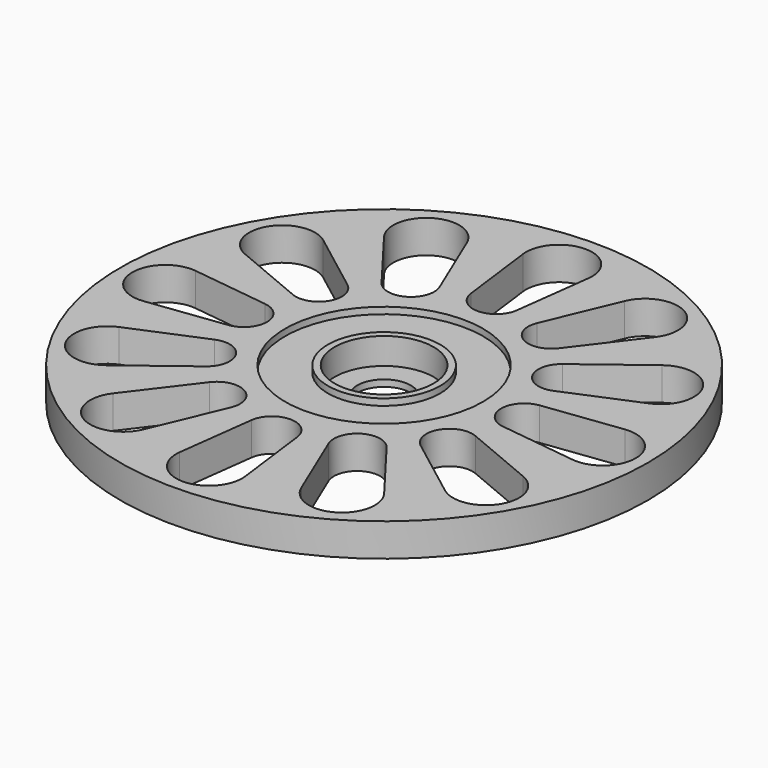
from build123d import *

# Parameters (mm, degrees)
F0_R     = 40
F0_R_2   = 15
F1_DEPTH = 5
F0_R_3   = 8.5
F2_DEPTH = 4
F0_R_4   = 7.5
F3_DEPTH = 5
F0_R_5   = 4.05
F4_DEPTH = 1


with BuildPart() as f1:
    # F0 (on Top) → F1 (new body)
    with BuildSketch(Plane.XY):
        Circle(F0_R)
        with BuildLine():
            ThreePointArc((-11.961144, -30.637533), (-19.071879, -33.033464), (-20.55231, -25.677421))
            Line((-20.55231, -25.677421), (-13.40868, -16.280358))
            ThreePointArc((-13.40868, -16.280358), (-8.872378, -15.36741), (-7.394863, -19.752436))
            Line((-7.394863, -19.752436), (-11.961144, -30.637533))
        make_face(mode=Mode.SUBTRACT)
        with BuildLine():
            ThreePointArc((4.960112, -32.513454), (0, -38.143759), (-4.960112, -32.513454))
            Line((-4.960112, -32.513454), (-3.472079, -20.803543))
            ThreePointArc((-3.472079, -20.803543), (0, -17.744757), (3.472079, -20.803543))
            Line((3.472079, -20.803543), (4.960112, -32.513454))
        make_face(mode=Mode.SUBTRACT)
        with BuildLine():
            ThreePointArc((-25.677421, -20.55231), (-33.033464, -19.071879), (-30.637533, -11.961144))
            Line((-30.637533, -11.961144), (-19.752436, -7.394863))
            ThreePointArc((-19.752436, -7.394863), (-15.36741, -8.872378), (-16.280358, -13.40868))
            Line((-16.280358, -13.40868), (-25.677421, -20.55231))
        make_face(mode=Mode.SUBTRACT)
        with BuildLine():
            ThreePointArc((20.55231, -25.677421), (19.071879, -33.033464), (11.961144, -30.637533))
            Line((11.961144, -30.637533), (7.394863, -19.752436))
            ThreePointArc((7.394863, -19.752436), (8.872378, -15.36741), (13.40868, -16.280358))
            Line((13.40868, -16.280358), (20.55231, -25.677421))
        make_face(mode=Mode.SUBTRACT)
        with BuildLine():
            ThreePointArc((30.637533, -11.961144), (33.033464, -19.071879), (25.677421, -20.55231))
            Line((25.677421, -20.55231), (16.280358, -13.40868))
            ThreePointArc((16.280358, -13.40868), (15.36741, -8.872378), (19.752436, -7.394863))
            Line((19.752436, -7.394863), (30.637533, -11.961144))
        make_face(mode=Mode.SUBTRACT)
        with BuildLine():
            ThreePointArc((32.513454, 4.960112), (38.143759, 0), (32.513454, -4.960112))
            Line((32.513454, -4.960112), (20.803543, -3.472079))
            ThreePointArc((20.803543, -3.472079), (17.744757, 0), (20.803543, 3.472079))
            Line((20.803543, 3.472079), (32.513454, 4.960112))
        make_face(mode=Mode.SUBTRACT)
        with BuildLine():
            ThreePointArc((-32.513454, -4.960112), (-38.143759, 0), (-32.513454, 4.960112))
            Line((-32.513454, 4.960112), (-20.803543, 3.472079))
            ThreePointArc((-20.803543, 3.472079), (-17.744757, 0), (-20.803543, -3.472079))
            Line((-20.803543, -3.472079), (-32.513454, -4.960112))
        make_face(mode=Mode.SUBTRACT)
        with BuildLine():
            ThreePointArc((-30.637533, 11.961144), (-33.033464, 19.071879), (-25.677421, 20.55231))
            Line((-25.677421, 20.55231), (-16.280358, 13.40868))
            ThreePointArc((-16.280358, 13.40868), (-15.36741, 8.872378), (-19.752436, 7.394863))
            Line((-19.752436, 7.394863), (-30.637533, 11.961144))
        make_face(mode=Mode.SUBTRACT)
        with BuildLine():
            ThreePointArc((-20.55231, 25.677421), (-19.071879, 33.033464), (-11.961144, 30.637533))
            Line((-11.961144, 30.637533), (-7.394863, 19.752436))
            ThreePointArc((-7.394863, 19.752436), (-8.872378, 15.36741), (-13.40868, 16.280358))
            Line((-13.40868, 16.280358), (-20.55231, 25.677421))
        make_face(mode=Mode.SUBTRACT)
        Circle(F0_R_2, mode=Mode.SUBTRACT)
        with BuildLine():
            ThreePointArc((25.677421, 20.55231), (33.033464, 19.071879), (30.637533, 11.961144))
            Line((30.637533, 11.961144), (19.752436, 7.394863))
            ThreePointArc((19.752436, 7.394863), (15.36741, 8.872378), (16.280358, 13.40868))
            Line((16.280358, 13.40868), (25.677421, 20.55231))
        make_face(mode=Mode.SUBTRACT)
        with BuildLine():
            ThreePointArc((3.472079, 20.803543), (0, 17.744757), (-3.472079, 20.803543))
            Line((-3.472079, 20.803543), (-4.960112, 32.513454))
            ThreePointArc((-4.960112, 32.513454), (0, 38.143759), (4.960112, 32.513454))
            Line((4.960112, 32.513454), (3.472079, 20.803543))
        make_face(mode=Mode.SUBTRACT)
        with BuildLine():
            ThreePointArc((11.961144, 30.637533), (19.071879, 33.033464), (20.55231, 25.677421))
            Line((20.55231, 25.677421), (13.40868, 16.280358))
            ThreePointArc((13.40868, 16.280358), (8.872378, 15.36741), (7.394863, 19.752436))
            Line((7.394863, 19.752436), (11.961144, 30.637533))
        make_face(mode=Mode.SUBTRACT)
    extrude(amount=F1_DEPTH)

    # F0 (on Top) → F2 (join)
    with BuildSketch(Plane.XY):
        Circle(F0_R_2)
        Circle(F0_R_3, mode=Mode.SUBTRACT)
    extrude(amount=F2_DEPTH)

    # F0 (on Top) → F3 (join)
    with BuildSketch(Plane.XY):
        Circle(F0_R_3)
        Circle(F0_R_4, mode=Mode.SUBTRACT)
    extrude(amount=F3_DEPTH)

    # F0 (on Top) → F4 (join)
    with BuildSketch(Plane.XY):
        Circle(F0_R_4)
        Circle(F0_R_5, mode=Mode.SUBTRACT)
    extrude(amount=F4_DEPTH)


solid = f1.part
